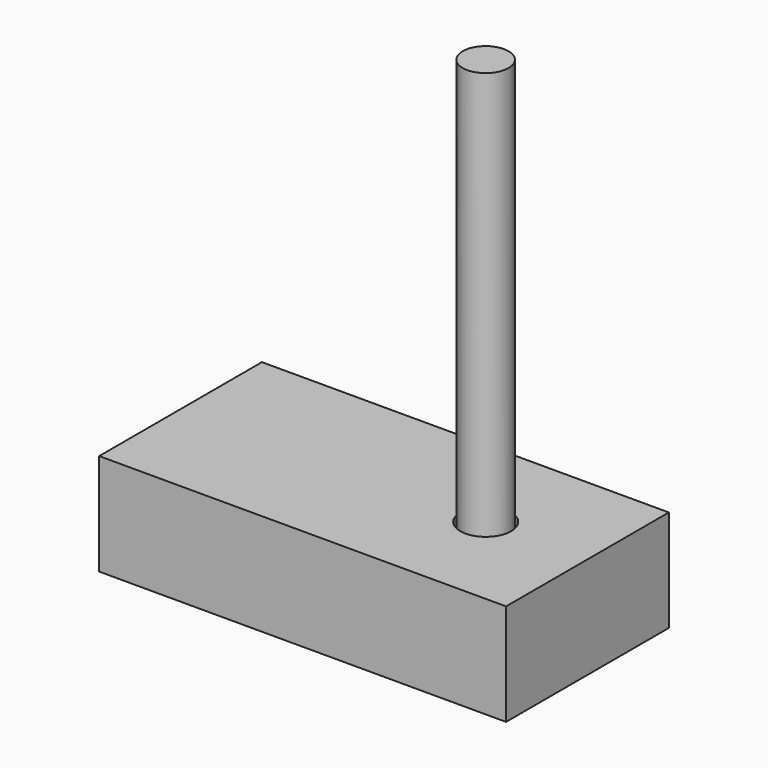
from build123d import *

# Parameters (mm, degrees)
F0_W     = 101.6
F0_H     = 50.8
F0_R     = 6.35
F1_DEPTH = 25.4
F2_R     = 5.715
F3_DEPTH = 127


with BuildPart() as f1:
    # F0 (on Top) → F1 (new body)
    with BuildSketch(Plane.XY):
        Rectangle(F0_W, F0_H)
        with Locations((25.4, 0)):
            Circle(F0_R, mode=Mode.SUBTRACT)
    extrude(amount=F1_DEPTH)


with BuildPart() as f3:
    # F2 (on face) → F3 (new body)
    with BuildSketch(Plane.XY):
        with Locations((25.380079, 0)):
            Circle(F2_R)
    extrude(amount=F3_DEPTH)


solid = Compound([f1.part, f3.part])
